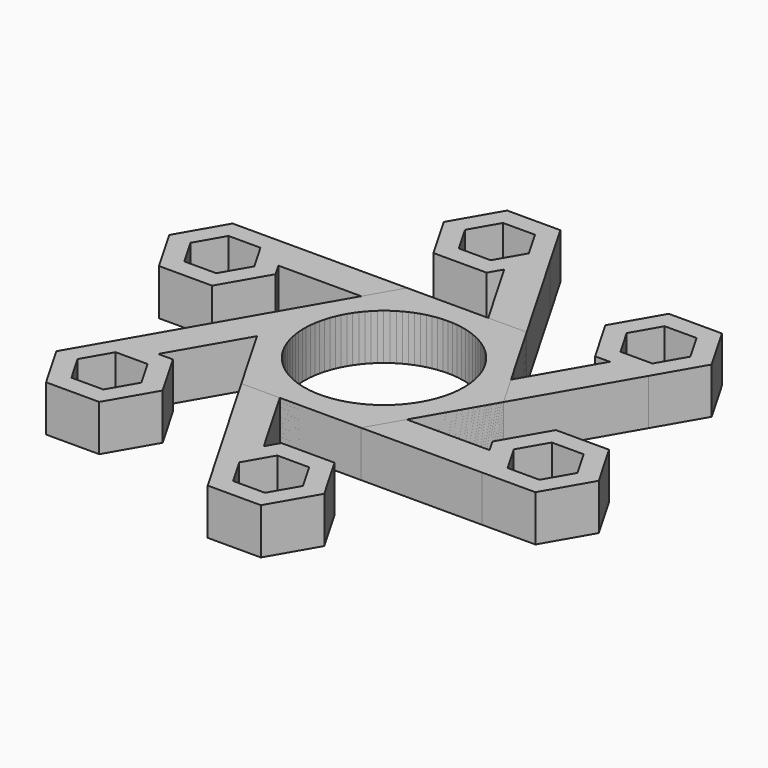
from build123d import *

# Parameters (mm, degrees)
F0_R     = 11.0236
F1_DEPTH = 6.35
F2_COUNT = 6


with BuildPart() as f1:
    # F0 (on Top) → F1 (new body)
    with BuildSketch(Plane.XY):
        Polygon((-2.949456, -14.2875), (8.248892, -14.2875), (16.497784, 0), (8.248892, 14.2875), (-8.248892, 14.2875), (-16.497784, 0), (-8.248892, -14.2875), align=None)
        Circle(F0_R, mode=Mode.SUBTRACT)
        Polygon((2.765544, -24.18617), (-2.949456, -14.2875), (-8.248892, -14.2875), (0.115826, -28.775617), align=None)
        Polygon((3.782, -22.425617), (2.765544, -24.18617), (0.115826, -28.775617), (3.782, -35.125617), (11.114349, -35.125617), (14.780523, -28.775617), (11.114349, -22.425617), align=None)
        Polygon((11.847584, -28.775617), (9.647879, -32.585617), (5.24847, -32.585617), (3.048765, -28.775617), (5.24847, -24.965617), (9.647879, -24.965617), align=None, mode=Mode.SUBTRACT)
    extrude(amount=F1_DEPTH)


with BuildPart() as f2_1:
    # F2: instance of F1
    add(f1.part.rotate(Axis((0, 0, 6.35), (0, 0, 1)), 1 * 360 / F2_COUNT))


with BuildPart() as f2_2:
    # F2: instance of F1
    add(f1.part.rotate(Axis((0, 0, 6.35), (0, 0, 1)), 2 * 360 / F2_COUNT))


with BuildPart() as f2_3:
    # F2: instance of F1
    add(f1.part.rotate(Axis((0, 0, 6.35), (0, 0, 1)), 3 * 360 / F2_COUNT))


with BuildPart() as f2_4:
    # F2: instance of F1
    add(f1.part.rotate(Axis((0, 0, 6.35), (0, 0, 1)), 4 * 360 / F2_COUNT))


with BuildPart() as f2_5:
    # F2: instance of F1
    add(f1.part.rotate(Axis((0, 0, 6.35), (0, 0, 1)), 5 * 360 / F2_COUNT))


solid = Compound([f1.part, f2_1.part, f2_2.part, f2_3.part, f2_4.part, f2_5.part])
